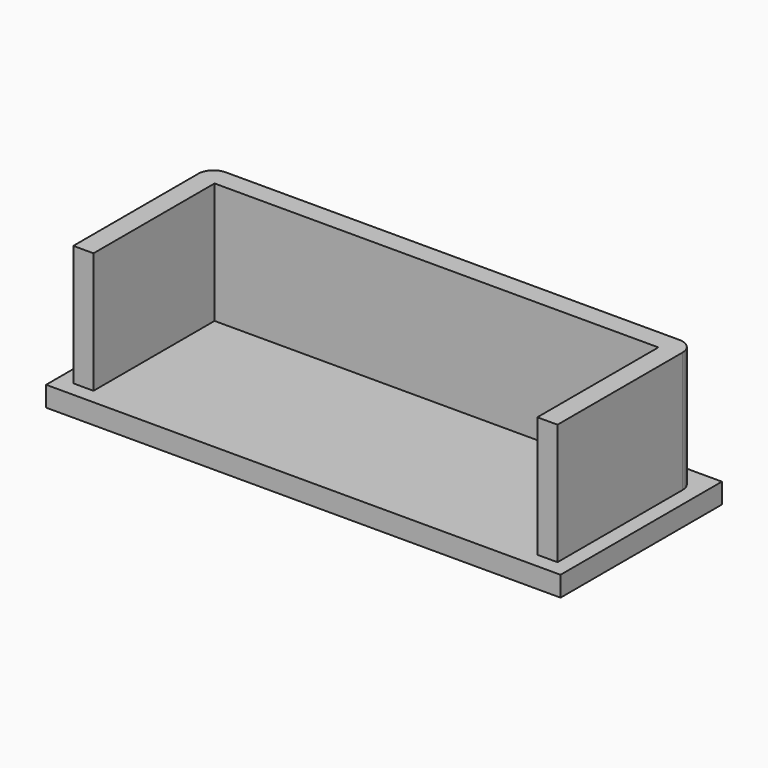
from build123d import *

# Parameters (mm, degrees)
SKETCH_W     = 51
SKETCH_H     = 20
PAD_DEPTH    = 2
PAD001_DEPTH = 12


with BuildPart() as part:
    # Sketch → Pad (new body)
    with BuildSketch(Plane.XY):
        with Locations((25.5, 10)):
            Rectangle(SKETCH_W, SKETCH_H)
    extrude(amount=PAD_DEPTH)

    # Sketch001 (on Face6 of Pad) → Pad001 (join)
    with BuildSketch(Plane.XY.offset(2)):
        with BuildLine():
            Line((1.5, 1.5), (1.5, 17))
            ThreePointArc((3, 18.5), (1.93934, 18.06066), (1.5, 17))
            Line((3, 18.5), (48, 18.5))
            ThreePointArc((49.5, 17), (49.06066, 18.06066), (48, 18.5))
            Line((49.5, 17), (49.5, 1.5))
            Line((49.5, 1.5), (47.5, 1.5))
            Line((47.5, 1.5), (47.5, 16.5))
            Line((47.5, 16.5), (3.5, 16.5))
            Line((3.5, 16.5), (3.5, 1.5))
            Line((3.5, 1.5), (1.5, 1.5))
        make_face()
    extrude(amount=PAD001_DEPTH)


solid = part.part
